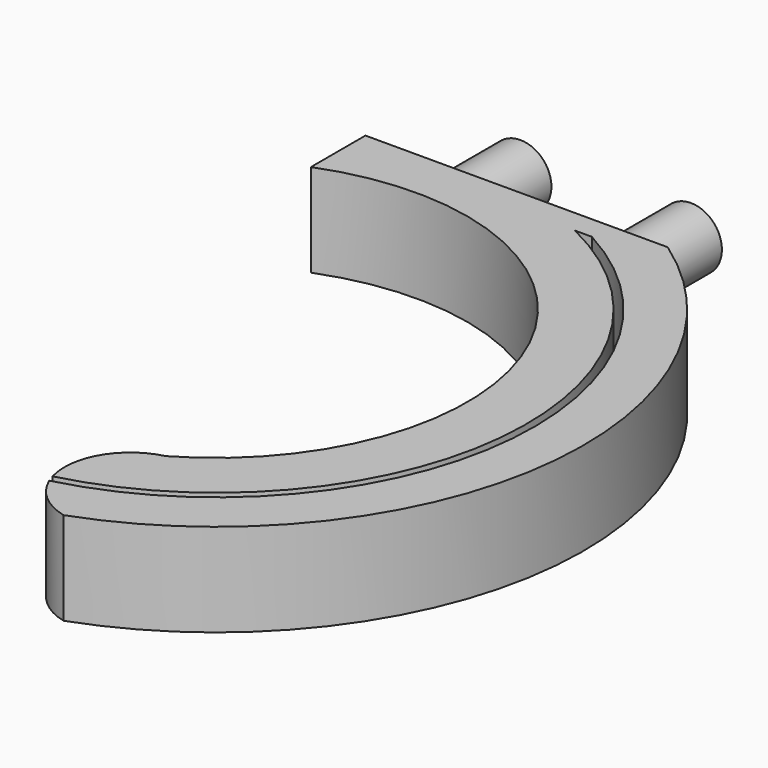
from build123d import *

# Parameters (mm, degrees)
BOX_W                  = 39
BOX_H                  = 3
BOX_DEPTH              = 8
CYLINDER_R             = 4
CYLINDER_DEPTH         = 15
CYLINDER_ROLL_ANGLE    = 90
CYLINDER001_R          = 4
CYLINDER001_DEPTH      = 15
CYLINDER001_ROLL_ANGLE = 90
PAD001_DEPTH           = 9
PAD_DEPTH              = 12


with BuildPart() as base:
    # Box → Box (new body)
    with BuildSketch(Plane(origin=(-8, -18, -4), x_dir=(1, 0, 0), z_dir=(0, 0, 1))):
        with Locations((19.5, 1.5)):
            Rectangle(BOX_W, BOX_H)
    extrude(amount=BOX_DEPTH)


with BuildPart() as pin2:
    # Cylinder → Cylinder (new body)
    with BuildSketch(Plane.XY):
        Circle(CYLINDER_R)
    extrude(amount=CYLINDER_DEPTH)


with BuildPart() as pin2_1:
    # Cylinder roll: moved
    add(pin2.part.rotate(Axis((0, 0, 0), (1, 0, 0)), CYLINDER_ROLL_ANGLE))


with BuildPart() as pin2_2:
    # Cylinder placement: moved
    add(pin2_1.part.moved(Location((22, 0, 0))))


with BuildPart() as pin1:
    # Cylinder001 → Cylinder001 (new body)
    with BuildSketch(Plane.XY):
        Circle(CYLINDER001_R)
    extrude(amount=CYLINDER001_DEPTH)


with BuildPart() as pin1_1:
    # Cylinder001 roll: moved
    add(pin1.part.rotate(Axis((0, 0, 0), (1, 0, 0)), CYLINDER001_ROLL_ANGLE))


with BuildPart() as pin1_2:
    # Cylinder001 placement: moved
    add(pin1_1.part)


with BuildPart() as pad001:
    # Sketch002 → Pad001 (new body)
    with BuildSketch(Plane(origin=(11, -18, -4), x_dir=(1, 0, 0), z_dir=(0, 0, -1))):
        with BuildLine():
            ThreePointArc((12.621417, 0), (33.637085, 41.443099), (2.455765, 75.894718))
            Line((2.455765, 75.894718), (2.211865, 74.924819))
            ThreePointArc((10.435596, 0), (32.761211, 40.364181), (2.211865, 74.924819))
            Line((10.435596, 0), (12.621417, 0))
        make_face()
    extrude(amount=PAD001_DEPTH)


with BuildPart() as cut:
    # Sketch001 → Pad (new body)
    with BuildSketch(Plane(origin=(0, -18, -4), x_dir=(1, 0, 0), z_dir=(0, 0, -1))):
        with BuildLine():
            ThreePointArc((31, -3), (50.986116, 42.194698), (20, 80.689712))
            ThreePointArc((20, 80.689712), (13.509552, 72.438184), (20, 64.186656))
            ThreePointArc((-8, 5.8), (33.160574, 21.968159), (20, 64.186656))
            Line((-8, 5.8), (-8, -3))
            Line((-8, -3), (31, -3))
        make_face()
    extrude(amount=PAD_DEPTH)

    # Cut: cut Pad001
    add(pad001.part, mode=Mode.SUBTRACT)


with BuildPart() as cut_1:
    # Cut placement: moved
    add(cut.part.moved(Location((0, 0, 12))))


solid = Compound([base.part, pin2_2.part, pin1_2.part, cut_1.part])
